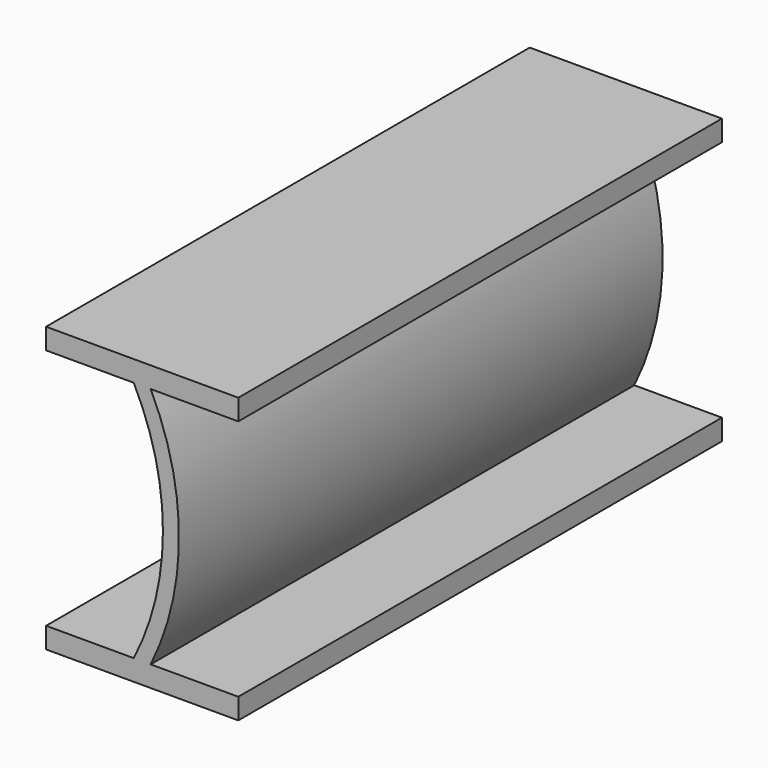
from build123d import *

# Parameters (mm, degrees)
F1_DEPTH = 254


with BuildPart() as f1:
    # F0 (on Front) → F1 (new body)
    with BuildSketch(Plane.XZ):
        with BuildLine():
            Line((36.874757, 42.862148), (-43.897243, 42.862148))
            Line((-43.897243, 42.862148), (-43.897243, 34.099148))
            Line((-43.897243, 34.099148), (-7.067243, 34.099148))
            ThreePointArc((-7.067243, 34.099148), (5.195877, -16.827852), (-7.067243, -67.754852))
            Line((-7.067243, -67.754852), (-43.897243, -67.754852))
            Line((-43.897243, -67.754852), (-43.897243, -76.517852))
            Line((-43.897243, -76.517852), (36.874757, -76.517852))
            Line((36.874757, -76.517852), (36.874757, -67.754852))
            Line((36.874757, -67.754852), (0.044757, -67.754852))
            ThreePointArc((0.044757, -67.754852), (11.944951, -16.827852), (0.044757, 34.099148))
            Line((0.044757, 34.099148), (36.874757, 34.099148))
            Line((36.874757, 34.099148), (36.874757, 42.862148))
        make_face()
    extrude(amount=F1_DEPTH)


solid = f1.part
